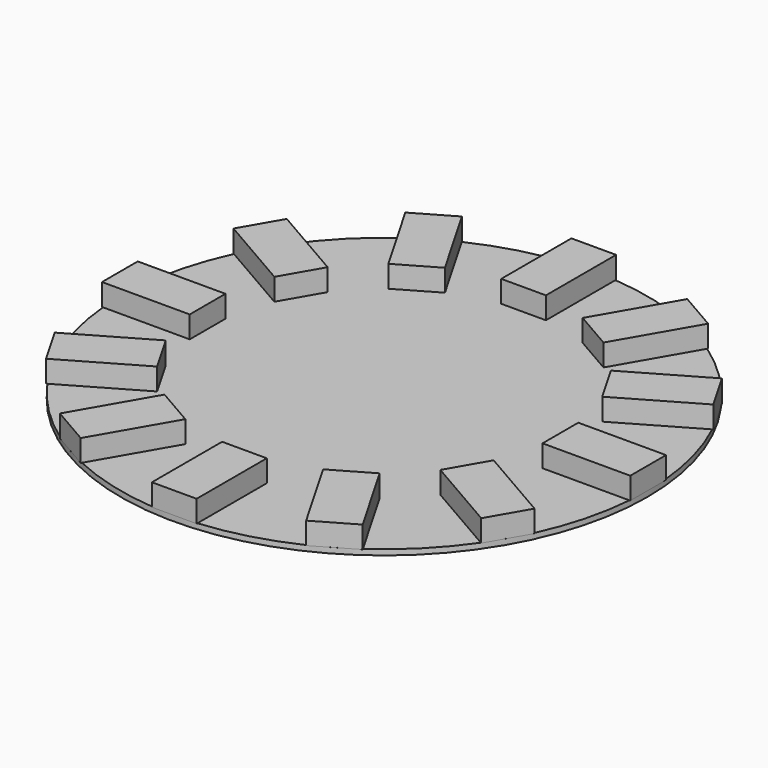
from build123d import *

# Parameters (mm, degrees)
F0_W     = 25.849619
F0_H     = 50.748426
F0_W_2   = 50.748426
F0_H_2   = 25.849619
F1_DEPTH = 12.7
F2_R     = 152.4
F3_DEPTH = 3.175


with BuildPart() as f1:
    # F0 (on Top) → F1 (new body)
    with BuildSketch(Plane.XY):
        with Locations((-0.551344, 127)):
            Rectangle(F0_W, F0_H)
        Polygon((-40.097159, 94.197246), (-65.471372, 138.146671), (-87.857798, 125.221862), (-62.483585, 81.272437), align=None)
        Polygon((-81.823781, 61.528628), (-125.773207, 86.902841), (-138.698016, 64.516415), (-94.748591, 39.142202), align=None)
        with Locations((-127, -0.551344)):
            Rectangle(F0_W_2, F0_H_2)
        Polygon((-94.197246, -40.097159), (-138.146671, -65.471372), (-125.221862, -87.857798), (-81.272437, -62.483585), align=None)
        Polygon((-61.528628, -81.823781), (-86.902841, -125.773207), (-64.516415, -138.698016), (-39.142202, -94.748591), align=None)
        with Locations((0.551344, -127)):
            Rectangle(F0_W, F0_H)
        Polygon((40.097159, -94.197246), (65.471372, -138.146671), (87.857798, -125.221862), (62.483585, -81.272437), align=None)
        Polygon((81.823781, -61.528628), (125.773207, -86.902841), (138.698016, -64.516415), (94.748591, -39.142202), align=None)
        with Locations((127, 0.551344)):
            Rectangle(F0_W_2, F0_H_2)
        Polygon((94.197246, 40.097159), (138.146671, 65.471372), (125.221862, 87.857798), (81.272437, 62.483585), align=None)
        Polygon((61.528628, 81.823781), (86.902841, 125.773207), (64.516415, 138.698016), (39.142202, 94.748591), align=None)
    extrude(amount=F1_DEPTH)

    # F2 (on Top) → F3 (join)
    with BuildSketch(Plane.XY):
        Circle(F2_R)
    extrude(amount=-F3_DEPTH)


solid = f1.part
